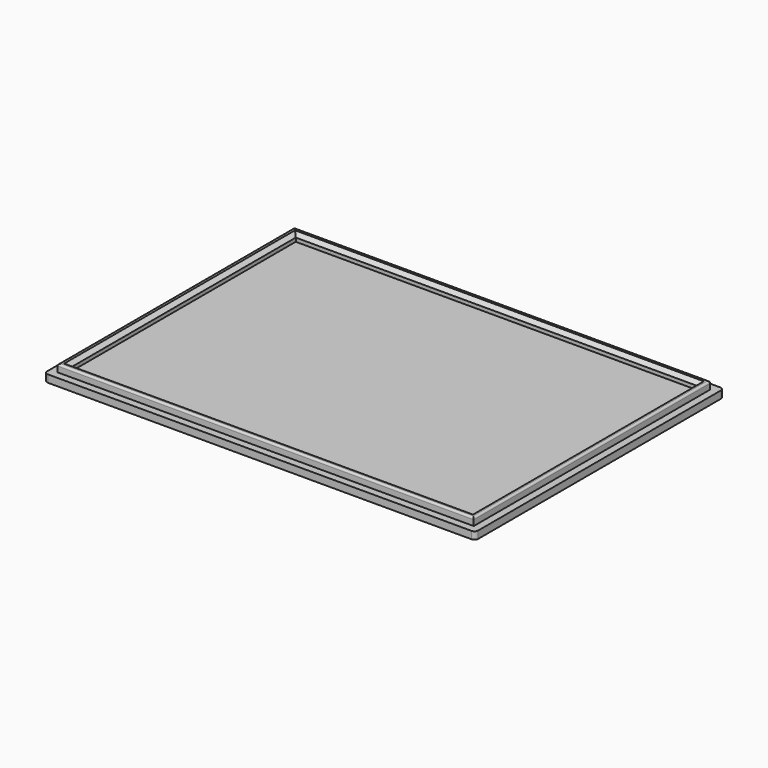
from build123d import *

# Parameters (mm, degrees)
SKETCH007_W     = 116.5
SKETCH007_H     = 84
PAD002_DEPTH    = 2
SKETCH008_W     = 112.5
SKETCH008_H     = 80
PAD003_DEPTH    = 2
SKETCH009_W     = 108.5
SKETCH009_H     = 76
POCKET004_DEPTH = 2
CHAMFER004_SIZE = 1
FILLET002_R     = 0.5
FILLET003_R     = 1
FILLET004_R     = 1
FILLET005_R     = 1
FILLET006_R     = 1
FILLET007_R     = 0.2


with BuildPart() as part:
    # Sketch007 → Pad002 (new body)
    with BuildSketch(Plane(origin=(0, 0, 0), x_dir=(1, 0, 0), z_dir=(0, 0, -1))):
        with Locations((58.25, 42)):
            Rectangle(SKETCH007_W, SKETCH007_H)
    extrude(amount=PAD002_DEPTH)

    # Sketch008 (on Face5 of Pad002) → Pad003 (new body)
    with BuildSketch(Plane.XY):
        with Locations((58.25, -42)):
            Rectangle(SKETCH008_W, SKETCH008_H)
    extrude(amount=PAD003_DEPTH)

    # Sketch009 (on Face11 of Pad003) → Pocket004 (cut)
    with BuildSketch(Plane.XY.offset(2)):
        with Locations((58.25, -42)):
            Rectangle(SKETCH009_W, SKETCH009_H)
    extrude(amount=-POCKET004_DEPTH, mode=Mode.SUBTRACT)

    # Chamfer004
    chamfer004_edges = [part.edges().sort_by_distance(p)[0] for p in [
        (112.5, -42, 2),
        (58.25, -4, 2),
        (4, -42, 2),
        (58.25, -80, 2),
    ]]
    chamfer(chamfer004_edges, length=CHAMFER004_SIZE)

    # Fillet002
    fillet002_edges = [part.edges().sort_by_distance(p)[0] for p in [
        (58.25, -2, 2),
        (2, -42, 2),
        (114.5, -42, 2),
        (58.25, -82, 2),
    ]]
    fillet(fillet002_edges, radius=FILLET002_R)

    # Fillet003
    fillet003_edges = [part.edges().sort_by_distance(p)[0] for p in [
        (0, 0, -1),
    ]]
    fillet(fillet003_edges, radius=FILLET003_R)

    # Fillet004
    fillet004_edges = [part.edges().sort_by_distance(p)[0] for p in [
        (116.5, 0, -1),
    ]]
    fillet(fillet004_edges, radius=FILLET004_R)

    # Fillet005
    fillet005_edges = [part.edges().sort_by_distance(p)[0] for p in [
        (0, -84, -1),
    ]]
    fillet(fillet005_edges, radius=FILLET005_R)

    # Fillet006
    fillet006_edges = [part.edges().sort_by_distance(p)[0] for p in [
        (116.5, -84, -1),
    ]]
    fillet(fillet006_edges, radius=FILLET006_R)

    # Fillet007
    fillet007_edges = [part.edges().sort_by_distance(p)[0] for p in [
        (114.5, -2, 0.75),
    ]]
    fillet(fillet007_edges, radius=FILLET007_R)


solid = part.part
